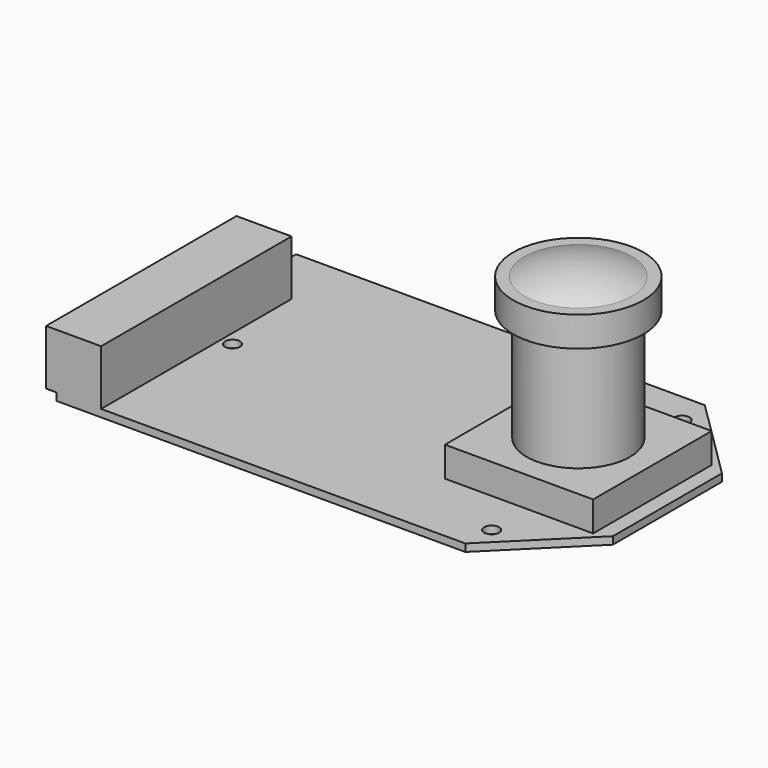
from build123d import *

# Parameters (mm, degrees)
F1_DEPTH  = 1
F2_W      = 19.8
F2_H      = 19.8
F3_DEPTH  = 4
F4_R      = 6.9
F5_DEPTH  = 15
F6_R      = 8.69
F6_R_2    = 6.9
F7_DEPTH  = 4
F8_W      = 1.4
F8_H      = 31.79
F8_W_2    = 5.95
F9_DEPTH  = 7.37
F10_R     = 1
F11_DEPTH = 25


with BuildPart() as f1:
    # F0 (on Top) → F1 (new body)
    with BuildSketch(Plane.XY):
        Polygon((21.8, 20), (-32.8, 20), (-32.8, -20), (21.8, -20), (32.8, -9.1), (32.8, 9.1), align=None)
    extrude(amount=F1_DEPTH)

    # F2 (on face) → F3 (join)
    with BuildSketch(Plane.XY.offset(1)):
        with Locations((20.9, 0)):
            Rectangle(F2_W, F2_H)
    extrude(amount=F3_DEPTH)

    # F4 (on face) → F5 (join)
    with BuildSketch(Plane.XY.offset(5)):
        with Locations((20.9, 0)):
            Circle(F4_R)
    extrude(amount=F5_DEPTH)

    # F6 (on face) → F7 (join)
    with BuildSketch(Plane.XY.offset(20)):
        with Locations((20.9, 0)):
            Circle(F6_R)
        with Locations((20.9, 0)):
            Circle(F6_R_2, mode=Mode.SUBTRACT)
        with Locations((20.9, 0)):
            Circle(F6_R_2)
    extrude(amount=F7_DEPTH)

    # F8 (on face) → F9 (join)
    with BuildSketch(Plane.XY.offset(1)):
        with Locations((-33.5, -4.105)):
            Rectangle(F8_W, F8_H)
        with Locations((-29.825, -4.105)):
            Rectangle(F8_W_2, F8_H)
    extrude(amount=F9_DEPTH)

    # F10 (on face) → F11 (cut)
    with BuildSketch(Plane.XY.offset(1)):
        with Locations((-25.3, 0)):
            Circle(F10_R)
        with Locations((22.04, 15.9)):
            Circle(F10_R)
        with Locations((22.04, -15.9)):
            Circle(F10_R)
    extrude(amount=-F11_DEPTH, mode=Mode.SUBTRACT)

    # F12 (on Front) → F13 (revolve)
    with BuildSketch(Plane.XZ):
        with BuildLine():
            Line((20.9, 25.65), (20.9, 24))
            Line((20.9, 24), (28.09, 24))
            ThreePointArc((28.09, 24), (24.58865, 25.233088), (20.9, 25.65))
        make_face()
    revolve(axis=Axis((20.9, 0, 1.492888), (0, 0, -1)))


solid = f1.part
